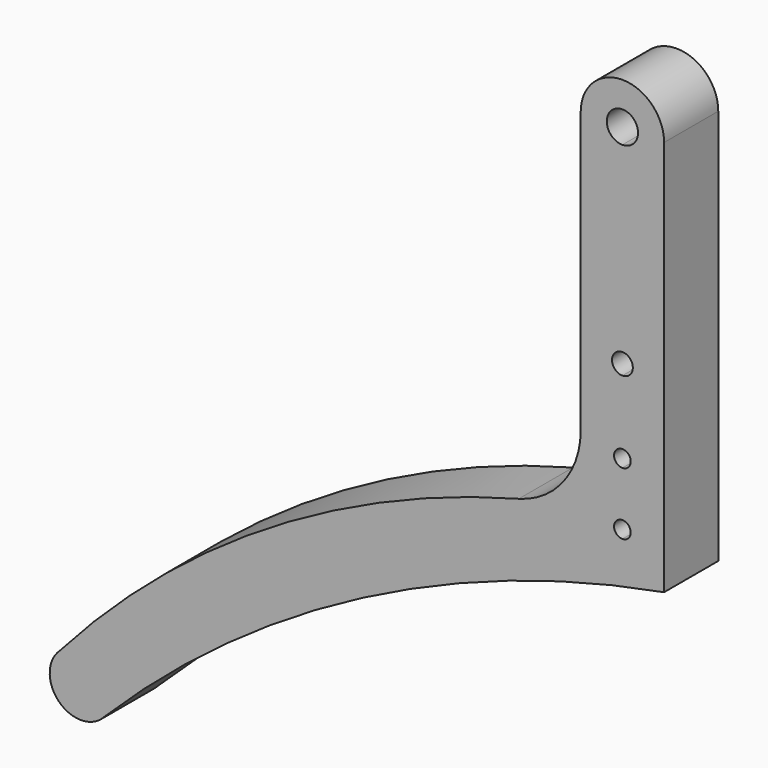
from build123d import *

# Parameters (mm, degrees)
F1_DEPTH = 6.5


with BuildPart() as f1:
    # F0 (on Front) → F1 (new body)
    with BuildSketch(Plane.XZ):
        with BuildLine():
            ThreePointArc((0, 30), (2.8284271247, 31.1715728753), (4, 34))
            ThreePointArc((4, 34), (0, 38), (-4, 34))
            ThreePointArc((-4, 34), (-2.8284271247, 31.1715728753), (0, 30))
        make_face()
        with BuildLine():
            ThreePointArc((1.5, 34), (1.0606601718, 32.9393398282), (0, 32.5))
            ThreePointArc((0, 32.5), (-1.0606601718, 35.0606601718), (1.5, 34))
        make_face(mode=Mode.SUBTRACT)
        with BuildLine():
            Line((4, 0), (4, 34))
            ThreePointArc((4, 34), (2.8284271247, 31.1715728753), (0, 30))
            Line((0, 30), (0, 15))
            ThreePointArc((0, 15), (0.7071067812, 14.7071067812), (1, 14))
            ThreePointArc((1, 14), (0.7071067812, 13.2928932188), (0, 13))
            Line((0, 13), (0, 6.8))
            ThreePointArc((0, 6.8), (0.5656854249, 6.5656854249), (0.8, 6))
            ThreePointArc((0.8, 6), (0.5656854249, 5.4343145751), (0, 5.2))
            Line((0, 5.2), (0, 4))
            ThreePointArc((0, 4), (2.8284271247, 2.8284271247), (4, 0))
        make_face()
        with BuildLine():
            ThreePointArc((0, 30), (-2.8284271247, 31.1715728753), (-4, 34))
            Line((-4, 34), (-4, 7.093183207))
            ThreePointArc((-4, 7.093183207), (-5.6561948009, 2.2191565764), (-9.939033899, -0.6367856629))
            ThreePointArc((-9.939033899, -0.6367856629), (-33.9890415525, -10.9305286234), (-53.9913096874, -27.7909343638))
            ThreePointArc((-53.9913096874, -27.7909343638), (-50.7551570319, -27.2532422403), (-48.9615242271, -30))
            ThreePointArc((-48.9615242271, -30), (-49.147242911, -31.0391442027), (-49.6814046764, -31.9496294096))
            ThreePointArc((-49.6814046764, -31.9496294096), (-24.9656625625, -13.8935137311), (4, -4))
            Line((4, -4), (0, -4))
            ThreePointArc((0, -4), (-4, 0), (0, 4))
            Line((0, 4), (0, 5.2))
            ThreePointArc((0, 5.2), (-0.8, 6), (0, 6.8))
            Line((0, 6.8), (0, 13))
            ThreePointArc((0, 13), (-1, 14), (0, 15))
            Line((0, 15), (0, 30))
        make_face()
        with BuildLine():
            ThreePointArc((0, -4), (2.8284271247, -2.8284271247), (4, 0))
            Line((4, 0), (0.8, 0))
            ThreePointArc((0.8, 0), (0.5656854249, -0.5656854249), (0, -0.8))
            Line((0, -0.8), (0, -4))
        make_face()
        with BuildLine():
            Line((4, -4), (4, 0))
            ThreePointArc((4, 0), (2.8284271247, -2.8284271247), (0, -4))
            Line((0, -4), (4, -4))
        make_face()
        with BuildLine():
            ThreePointArc((0, 4), (-4, 0), (0, -4))
            Line((0, -4), (0, -0.8))
            ThreePointArc((0, -0.8), (-0.8, 0), (0, 0.8))
            Line((0, 0.8), (0, 4))
        make_face()
        with BuildLine():
            Line((0.8, 0), (4, 0))
            ThreePointArc((4, 0), (2.8284271247, 2.8284271247), (0, 4))
            Line((0, 4), (0, 0.8))
            ThreePointArc((0, 0.8), (0.5656854249, 0.5656854249), (0.8, 0))
        make_face()
        with BuildLine():
            ThreePointArc((-50.0175044973, -32.2849042191), (-49.8496500156, -32.1170709047), (-49.6814046764, -31.9496294096))
            ThreePointArc((-49.6814046764, -31.9496294096), (-49.147242911, -31.0391442027), (-48.9615242271, -30))
            ThreePointArc((-48.9615242271, -30), (-50.7551570319, -27.2532422403), (-53.9913096874, -27.7909343638))
            ThreePointArc((-53.9913096874, -27.7909343638), (-54.2089183192, -31.9872643998), (-50.0175044973, -32.2849042191))
        make_face()
    extrude(amount=F1_DEPTH)


solid = f1.part
